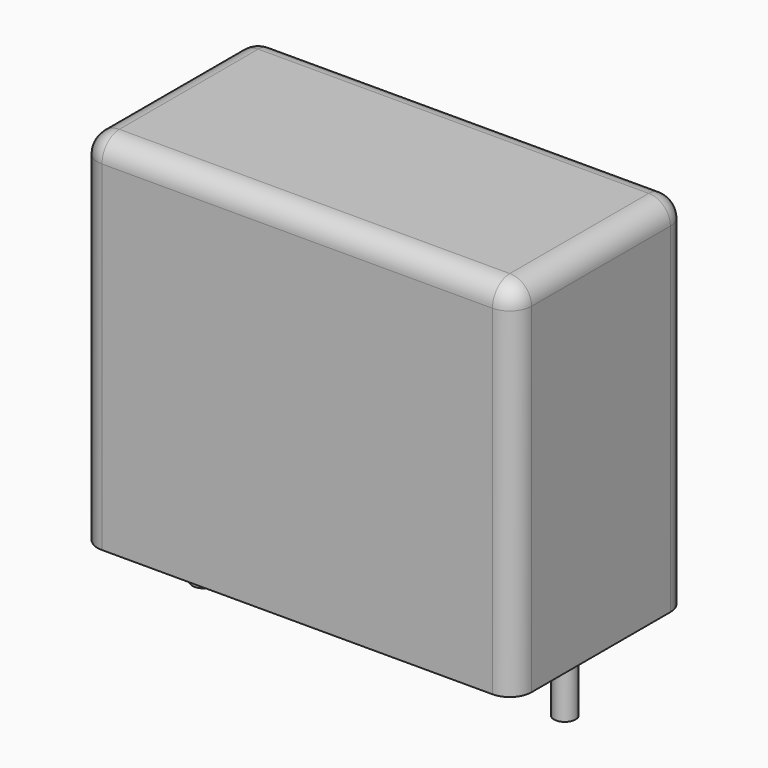
from build123d import *

# Parameters (mm, degrees)
SKETCH_W     = 18
SKETCH_H     = 9
PAD_DEPTH    = 15
FILLET_R     = 0.9
SKETCH001_R  = 0.45
PAD001_DEPTH = 3.2


with BuildPart() as fillet_body:
    # Sketch → Pad (new body)
    with BuildSketch(Plane.XY.offset(0.1)):
        with Locations((7.5, 0)):
            Rectangle(SKETCH_W, SKETCH_H)
    extrude(amount=PAD_DEPTH)

    # Fillet
    fillet_edges = [fillet_body.edges().sort_by_distance(p)[0] for p in [
        (-1.5, 0, 15.1),
        (-1.5, -4.5, 7.6),
        (7.5, -4.5, 15.1),
        (16.5, -4.5, 7.6),
        (16.5, 0, 15.1),
        (16.5, 4.5, 7.6),
        (7.5, 4.5, 15.1),
        (-1.5, 4.5, 7.6),
    ]]
    fillet(fillet_edges, radius=FILLET_R)


with BuildPart() as pad001:
    # Sketch001 → Pad001 (new body)
    with BuildSketch(Plane.XY.offset(0.5)):
        Circle(SKETCH001_R)
        with Locations((15, 0)):
            Circle(SKETCH001_R)
    extrude(amount=-PAD001_DEPTH)


solid = Compound([fillet_body.part, pad001.part])
